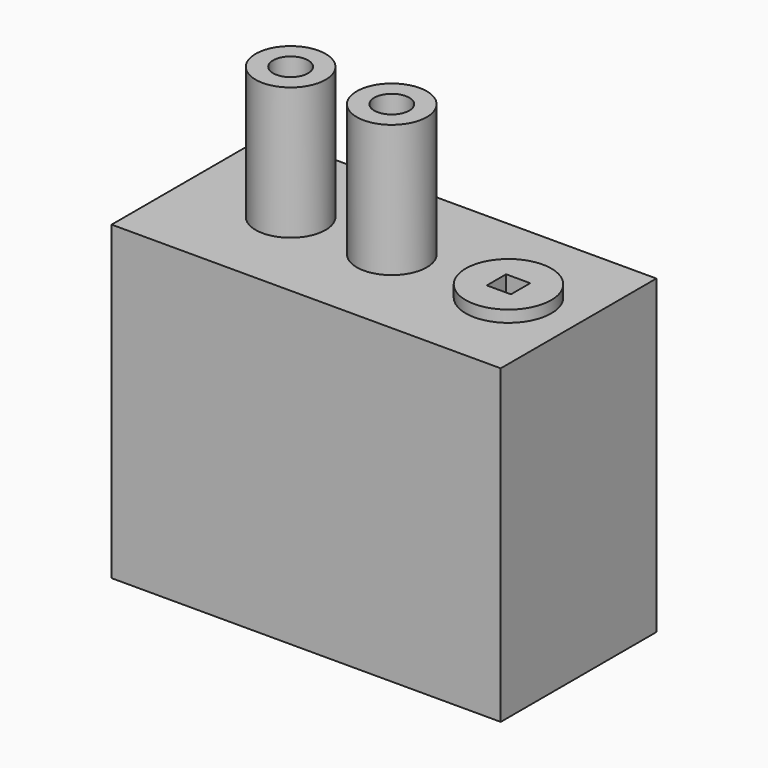
from build123d import *

# Parameters (mm, degrees)
F0_W     = 50
F0_H     = 25
F1_DEPTH = 20
F2_R     = 5.5
F3_DEPTH = 1.5
F2_R_2   = 4.5
F4_DEPTH = 17
F5_W     = 3.1
F5_H     = 3.1
F6_DEPTH = 7.3
F7_R     = 2.25
F8_DEPTH = 17.4


with BuildPart() as f1:
    # F0 (on Top) → F1 (new body, symmetric)
    with BuildSketch(Plane.XY):
        Rectangle(F0_W, F0_H)
    extrude(amount=F1_DEPTH, both=True)

    # F2 (on face) → F3 (join)
    with BuildSketch(Plane.XY.offset(20)):
        with Locations((16, 0)):
            Circle(F2_R)
    extrude(amount=F3_DEPTH)

    # F2 (on face) → F4 (join)
    with BuildSketch(Plane.XY.offset(20)):
        with Locations((-12, 0)):
            Circle(F2_R_2)
        with Locations((1, 0)):
            Circle(F2_R_2)
    extrude(amount=F4_DEPTH)

    # F5 (on face) → F6 (cut)
    with BuildSketch(Plane.XY.offset(21.5)):
        with Locations((16, 0)):
            Rectangle(F5_W, F5_H)
    extrude(amount=-F6_DEPTH, mode=Mode.SUBTRACT)

    # F7 (on face) → F8 (cut)
    with BuildSketch(Plane.XY.offset(37)):
        with Locations((-12, 0)):
            Circle(F7_R)
        with Locations((1, 0)):
            Circle(F7_R)
    extrude(amount=-F8_DEPTH, mode=Mode.SUBTRACT)


solid = f1.part
